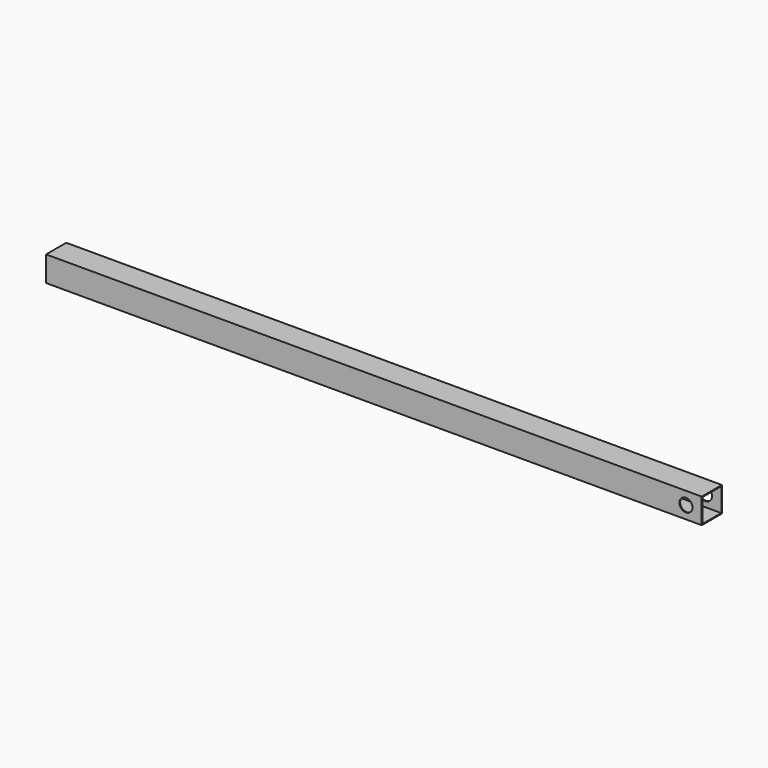
from build123d import *

# Parameters (mm, degrees)
F0_W     = 50.8
F0_H     = 50.8
F0_W_2   = 47.498
F0_H_2   = 47.498
F1_DEPTH = 1320.8
F2_R     = 13.096875
F3_DEPTH = 50.801


with BuildPart() as f1:
    # F0 (on Right) → F1 (new body)
    with BuildSketch(Plane.YZ):
        with Locations((25.4, 25.4)):
            Rectangle(F0_W, F0_H)
        with Locations((25.4, 25.4)):
            Rectangle(F0_W_2, F0_H_2, mode=Mode.SUBTRACT)
    extrude(amount=F1_DEPTH)

    # F2 (on face) → F3 (cut, through all)
    with BuildSketch(Plane.XZ):
        with Locations((1289.05, 25.4)):
            Circle(F2_R)
    extrude(amount=-F3_DEPTH, mode=Mode.SUBTRACT)


solid = f1.part
